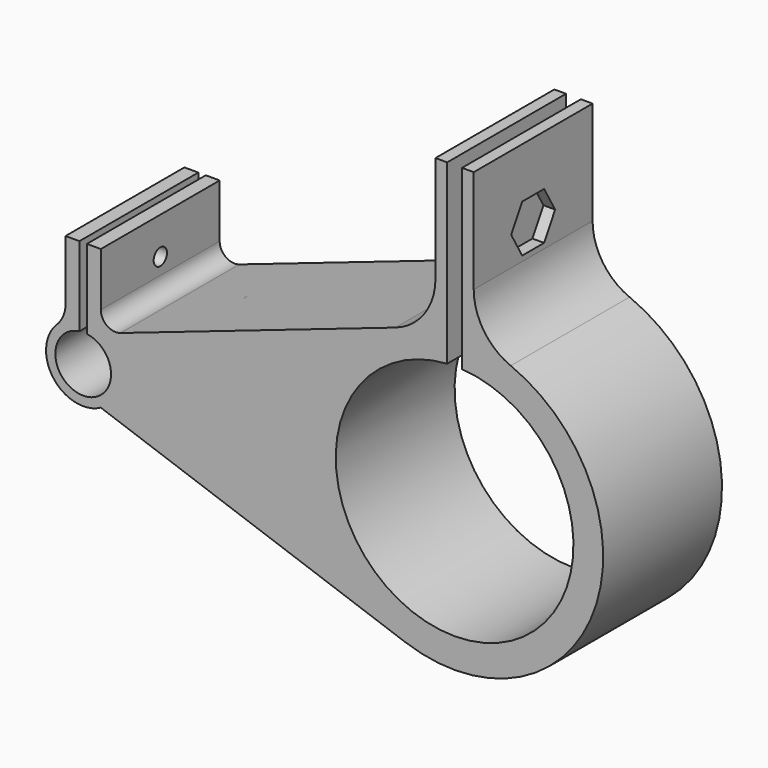
from build123d import *

# Parameters (mm, degrees)
F1_DEPTH  = 25.4
F3_DEPTH  = 2.778125
F5_D      = 3.556
F7_DEPTH  = 1.5875
F9_R      = 10.16
F10_R     = 10.16
F11_R     = 2.54
F12_R     = 5.08
F13_D     = 2.8448
F13_DEPTH = 19.05
F13_TIP   = 0.8546641445


with BuildPart() as f1:
    # F0 (on Front) → F1 (new body)
    with BuildSketch(Plane.XZ):
        with BuildLine():
            Line((-3.269999937, 50.5886303798), (-3.269999937, 25.1886303798))
            Line((-3.269999937, 25.1886303798), (-12.8627581622, 21.9022704864))
            Line((-12.8627581622, 21.9022704864), (-60.48375, 5.5879098004))
            Line((-60.48375, 5.5879098004), (-60.48375, 18.2879098004))
            Line((-60.48375, 18.2879098004), (-62.865, 18.2879098004))
            Line((-62.865, 18.2879098004), (-62.865, 6.3181702256))
            Line((-62.865, 6.3181702256), (-62.865, 4.7199768273))
            ThreePointArc((-62.865, 4.7199768273), (-63.5, -4.7625), (-64.135, 4.7199768273))
            Line((-64.135, 4.7199768273), (-64.135, 6.3181702256))
            Line((-64.135, 6.3181702256), (-64.135, 18.2879098004))
            Line((-64.135, 18.2879098004), (-66.51625, 18.2879098004))
            Line((-66.51625, 18.2879098004), (-66.51625, 5.5879098004))
            ThreePointArc((-66.51625, 5.5879098004), (-69.0879098004, -3.01625), (-60.48375, -5.5879098004))
            Line((-60.48375, -5.5879098004), (-8.4538247205, -23.9518860968))
            ThreePointArc((-8.4538247205, -23.9518860968), (24.7065902088, -5.894438078), (3.269999937, 25.1886303798))
            Line((3.269999937, 25.1886303798), (3.269999937, 50.5886303798))
            Line((3.269999937, 50.5886303798), (1.27, 50.5886303798))
            Line((1.27, 50.5886303798), (1.27, 25.3682301314))
            Line((1.27, 25.3682301314), (1.27, 20.2802736668))
            ThreePointArc((1.27, 20.2802736668), (0, -20.32), (-1.27, 20.2802736668))
            Line((-1.27, 20.2802736668), (-1.27, 25.3682301314))
            Line((-1.27, 25.3682301314), (-1.27, 50.5886303798))
            Line((-1.27, 50.5886303798), (-3.269999937, 50.5886303798))
        make_face()
    extrude(amount=F1_DEPTH)

    # F2 (on face) → F3 (cut)
    with BuildSketch(Plane.YZ.offset(3.269999937)):
        Polygon((-10.353648506, 33.8246303798), (-8.007297012, 37.8886303798), (-10.353648506, 41.9526303798), (-15.046351494, 41.9526303798), (-17.392702988, 37.8886303798), (-15.046351494, 33.8246303798), align=None)
    extrude(amount=-F3_DEPTH, mode=Mode.SUBTRACT)

    # F5 (through all)
    with Locations(Plane.YZ.offset(3.269999937)):
        with Locations((-12.693702988, 37.8886303798)):
            Hole(F5_D / 2)

    # F6 (on face) → F7 (cut)
    with BuildSketch(Plane(origin=(-66.51625, 0, 0), x_dir=(0, -1, 0), z_dir=(-1, 0, 0))):
        Polygon((10.8669128953, 8.7629098004), (14.5330871047, 8.7629098004), (16.3661742094, 11.9379098004), (14.5330871047, 15.1129098004), (10.8669128953, 15.1129098004), (9.0338257906, 11.9379098004), align=None)
    extrude(amount=-F7_DEPTH, mode=Mode.SUBTRACT)

    # F9
    f9_edges = [f1.edges().sort_by_distance(p)[0] for p in [
        (-3.27, -12.7, 25.18863),
    ]]
    fillet(f9_edges, radius=F9_R)

    # F10
    f10_edges = [f1.edges().sort_by_distance(p)[0] for p in [
        (3.27, -12.7, 25.18863),
    ]]
    fillet(f10_edges, radius=F10_R)

    # F11
    f11_edges = [f1.edges().sort_by_distance(p)[0] for p in [
        (-60.48375, -12.7, 5.58791),
    ]]
    fillet(f11_edges, radius=F11_R)

    # F12
    f12_edges = [f1.edges().sort_by_distance(p)[0] for p in [
        (-66.51625, -12.7, 5.58791),
    ]]
    fillet(f12_edges, radius=F12_R)

    # F13
    with Locations(Plane(origin=(-64.92875, 0, 0), x_dir=(0, -1, 0), z_dir=(-1, 0, 0))):
        with Locations((12.6853353032, 11.9633098004)):
            Hole(F13_D / 2, depth=F13_DEPTH)
            with Locations((0, 0, -(F13_DEPTH + F13_TIP / 2))):  # 118° drill point
                Cone(0, F13_D / 2, F13_TIP, mode=Mode.SUBTRACT)


solid = f1.part
